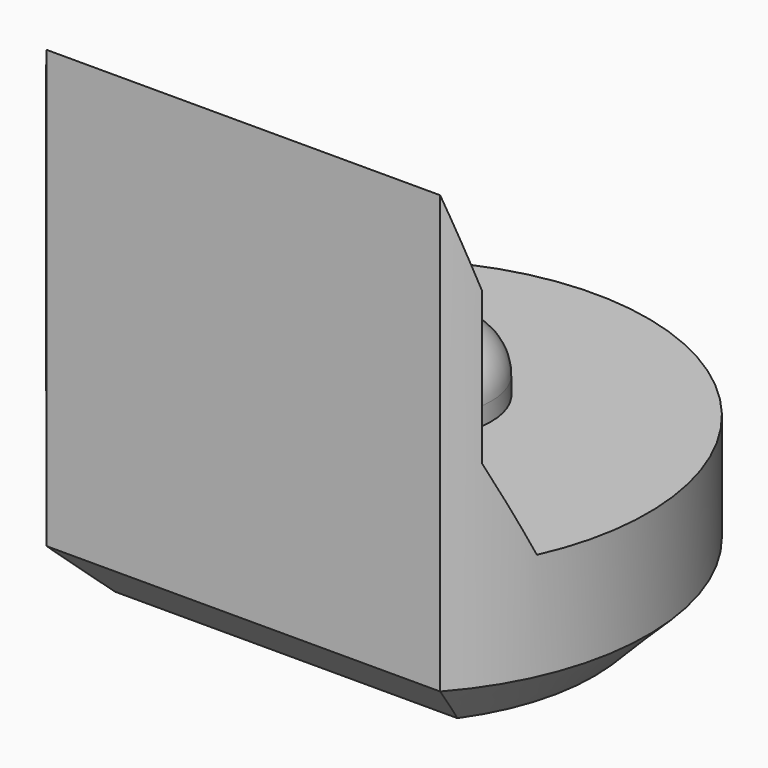
from build123d import *

# Parameters (mm, degrees)
PAD003_DEPTH         = 5.5
POCKET004_DEPTH      = 2.951
POCKET004_DEPTH_BACK = 2.951
SKETCH013_R          = 0.8
PAD006_DEPTH         = 0.7
FILLET_R             = 0.5
CHAMFER004_SIZE      = 0.6


with BuildPart() as part:
    # Sketch004 → Pad003 (new body)
    with BuildSketch(Plane.XY):
        with BuildLine():
            ThreePointArc((2.2, -1.9653244007), (0, 2.95), (-2.2, -1.9653244007))
            Line((-2.2, -1.9653244007), (2.2, -1.9653244007))
        make_face()
    extrude(amount=PAD003_DEPTH)

    # Sketch014 → Pocket004 (cut, two sides)
    with BuildSketch(Plane.YZ) as pocket004_sk:
        Polygon((-1.97, 5.5), (-1.67, 4.5), (-1.67, 2.8), (-1.22, 1.8), (4, 1.8), (4, 5.5), align=None)
    extrude(amount=-POCKET004_DEPTH, mode=Mode.SUBTRACT)
    extrude(pocket004_sk.sketch, amount=POCKET004_DEPTH_BACK, mode=Mode.SUBTRACT)

    # Sketch013 (on Face7 of Pocket004) → Pad006 (join)
    with BuildSketch(Plane.XY.offset(1.8)):
        with Locations((0, 0.5)):
            Circle(SKETCH013_R)
    extrude(amount=PAD006_DEPTH)

    # Fillet
    fillet_edges = [part.edges().sort_by_distance(p)[0] for p in [
        (-0.8, 0.5, 2.5),
    ]]
    fillet(fillet_edges, radius=FILLET_R)

    # Chamfer004
    chamfer004_edges = [part.edges().sort_by_distance(p)[0] for p in [
        (0, 2.95, 0),
        (0, -1.965324, 0),
    ]]
    chamfer(chamfer004_edges, length=CHAMFER004_SIZE)


with BuildPart() as part_1:
    # Body030 placement: moved
    add(part.part.moved(Location((0, 66, 0))))


solid = part_1.part
